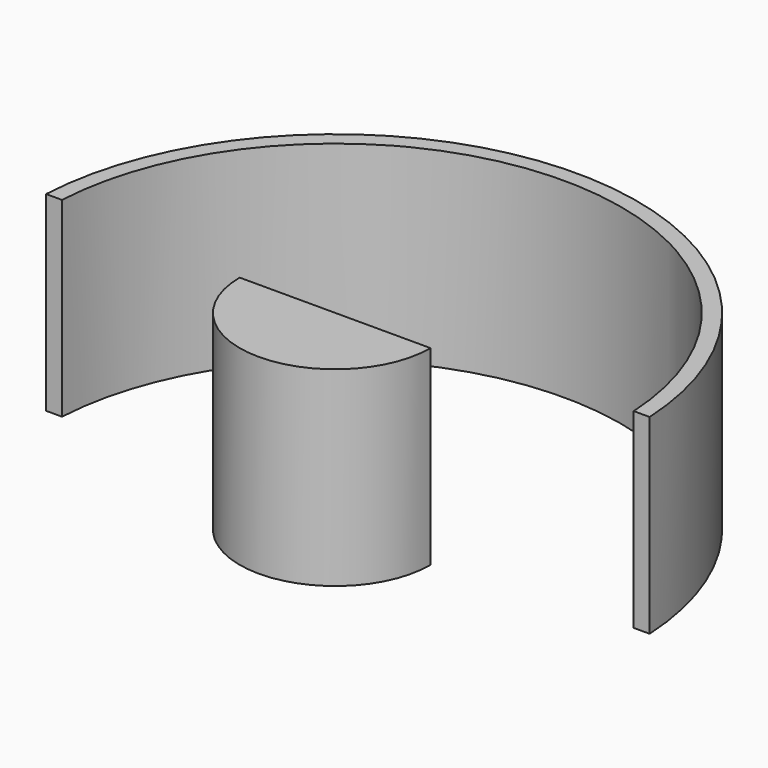
from build123d import *

# Parameters (mm, degrees)
F1_DEPTH = 38.1000004709
F2_DEPTH = 38.1


with BuildPart() as f1:
    # F0 (on Top) → F1 (new body, symmetric)
    with BuildSketch(Plane.XY):
        with BuildLine():
            Line((-120.4827820438, 6.3499999233), (-114.1234748024, 6.3499999233))
            ThreePointArc((-114.1234748024, 6.3499999233), (-97.3603641744, 59.878622962), (-57.15, 98.9867036526))
            ThreePointArc((-57.15, 98.9867036526), (-54.3772364315, 100.5365911401), (-51.562474562, 102.0088291132))
            ThreePointArc((-51.562474562, 102.0088291132), (0, 114.3), (51.562474562, 102.0088291132))
            ThreePointArc((51.562474562, 102.0088291132), (54.3772364315, 100.5365911401), (57.15, 98.9867036526))
            ThreePointArc((57.15, 98.9867036526), (97.3603641543, 59.8786229947), (114.1234747981, 6.35))
            Line((114.1234747981, 6.35), (120.4827820397, 6.35))
            ThreePointArc((120.4827820397, 6.35), (-3.84e-08, 120.6500031829), (-120.4827820438, 6.3499999233))
        make_face()
    extrude(amount=F1_DEPTH, both=True)


with BuildPart() as f2:
    # F0 (on Top) → F2 (new body, symmetric)
    with BuildSketch(Plane.XY):
        with BuildLine():
            Line((0, 0), (-19.05, -32.9955678842))
            ThreePointArc((-19.05, -32.9955678842), (0, -38.1), (19.05, -32.9955678842))
            Line((19.05, -32.9955678842), (0, 0))
        make_face()
        with BuildLine():
            Line((38.1, 0), (0, 0))
            Line((0, 0), (19.05, -32.9955678842))
            ThreePointArc((19.05, -32.9955678842), (32.9955678842, -19.05), (38.1, 0))
        make_face()
        with BuildLine():
            Line((0, 0), (-38.1, 0))
            ThreePointArc((-38.1, 0), (-32.9955678842, -19.05), (-19.05, -32.9955678842))
            Line((-19.05, -32.9955678842), (0, 0))
        make_face()
    extrude(amount=F2_DEPTH, both=True)


solid = Compound([f1.part, f2.part])
